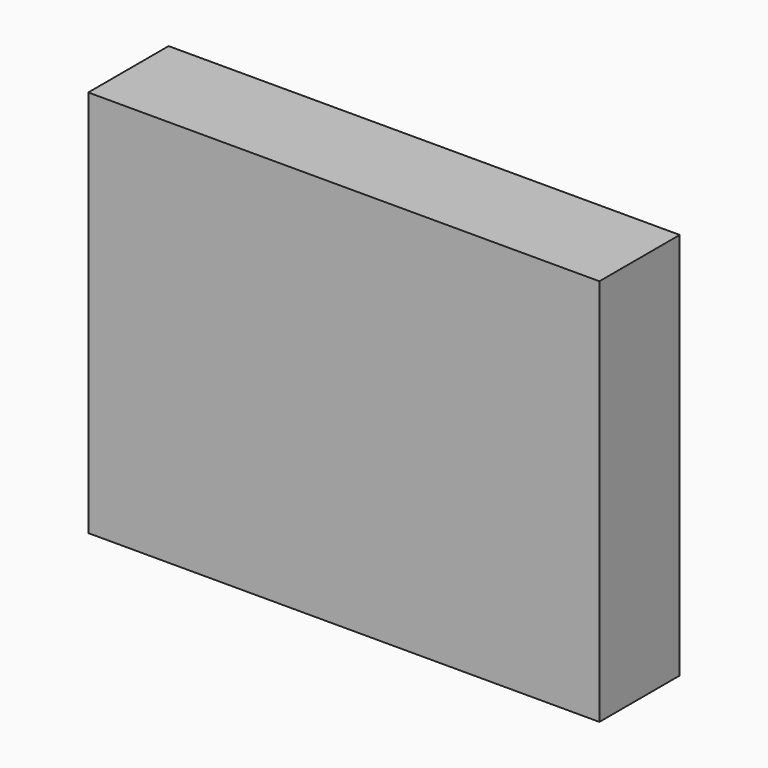
from build123d import *

# Parameters (mm, degrees)
F0_W     = 112
F0_H     = 22
F1_DEPTH = 85
F4_D     = 15
F4_DEPTH = 10
F4_TIP   = 4.5064546427


with BuildPart() as f1:
    # F0 (on Top) → F1 (new body)
    with BuildSketch(Plane.XY):
        Rectangle(F0_W, F0_H)
    extrude(amount=-F1_DEPTH)

    # F4
    with Locations(Plane(origin=(0, 11, 0), x_dir=(-1, 0, 0), z_dir=(0, 1, 0))):
        with Locations((-40, -15), (40, -15), (40, -65), (-40, -65)):
            Hole(F4_D / 2, depth=F4_DEPTH)
            with Locations((0, 0, -(F4_DEPTH + F4_TIP / 2))):  # 118° drill point
                Cone(0, F4_D / 2, F4_TIP, mode=Mode.SUBTRACT)


solid = f1.part
